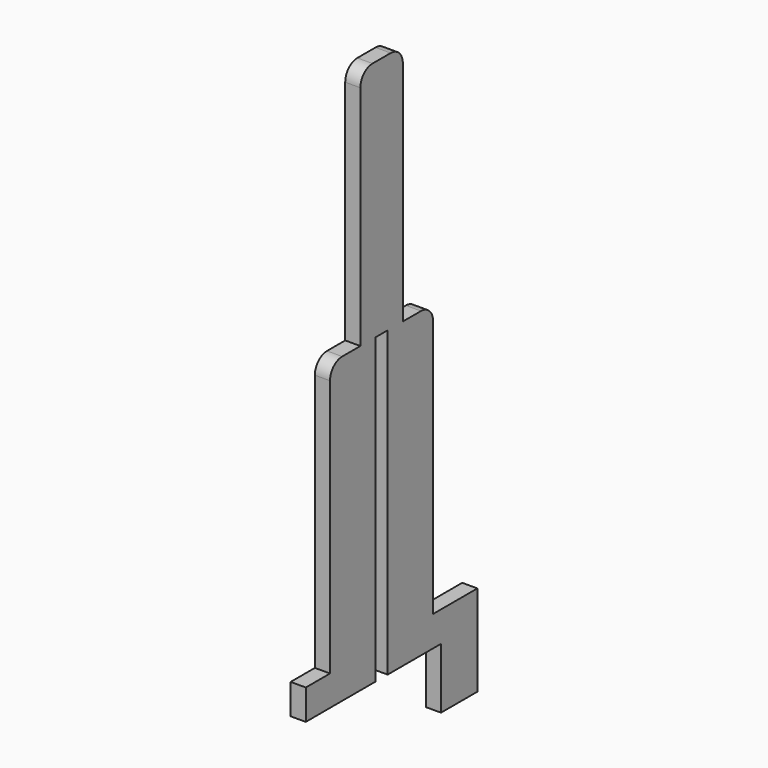
from build123d import *

# Parameters (mm, degrees)
F1_DEPTH = 3.175


with BuildPart() as f1:
    # F0 (on Right) → F1 (new body, symmetric)
    with BuildSketch(Plane.YZ):
        with BuildLine():
            Line((3.175, -63.5), (26.9875, -63.5))
            Line((26.9875, -63.5), (26.9875, -50.8))
            Line((26.9875, -50.8), (26.9875, 57.15))
            ThreePointArc((26.9875, 57.15), (25.127628, 61.640128), (20.6375, 63.5))
            Line((20.6375, 63.5), (17.464617, 63.5))
            Line((17.464617, 63.5), (11.113911, 63.5))
            Line((11.113911, 63.5), (11.124494, 158.749293))
            ThreePointArc((11.124494, 158.749293), (9.264872, 163.239877), (4.774494, 165.099999))
            Line((4.774494, 165.099999), (-4.7498, 165.099999))
            ThreePointArc((-4.7498, 165.099999), (-9.239928, 163.240127), (-11.0998, 158.749999))
            Line((-11.0998, 158.749999), (-11.0998, 63.5))
            Line((-11.0998, 63.5), (-17.4498, 63.5))
            Line((-17.4498, 63.5), (-20.6375, 63.5))
            ThreePointArc((-20.6375, 63.5), (-25.127628, 61.640128), (-26.9875, 57.15))
            Line((-26.9875, 57.15), (-26.9875, -50.818807))
            Line((-26.9875, -50.818807), (-26.9875, -63.5))
            Line((-26.9875, -63.5), (-3.175, -63.5))
            Line((-3.175, -63.5), (-3.175, 63.5))
            Line((-3.175, 63.5), (3.175, 63.5))
            Line((3.175, 63.5), (3.175, -63.5))
        make_face()
        Polygon((26.9875, -50.8), (26.9875, -63.5), (31.115, -63.5), (31.115, -88.9), (50.165, -88.9), (50.165, -50.8), align=None)
        Polygon((-39.6875, -63.518807), (-26.9875, -63.5), (-26.9875, -50.818807), (-39.6875, -50.818807), align=None)
    extrude(amount=F1_DEPTH, both=True)


solid = f1.part
